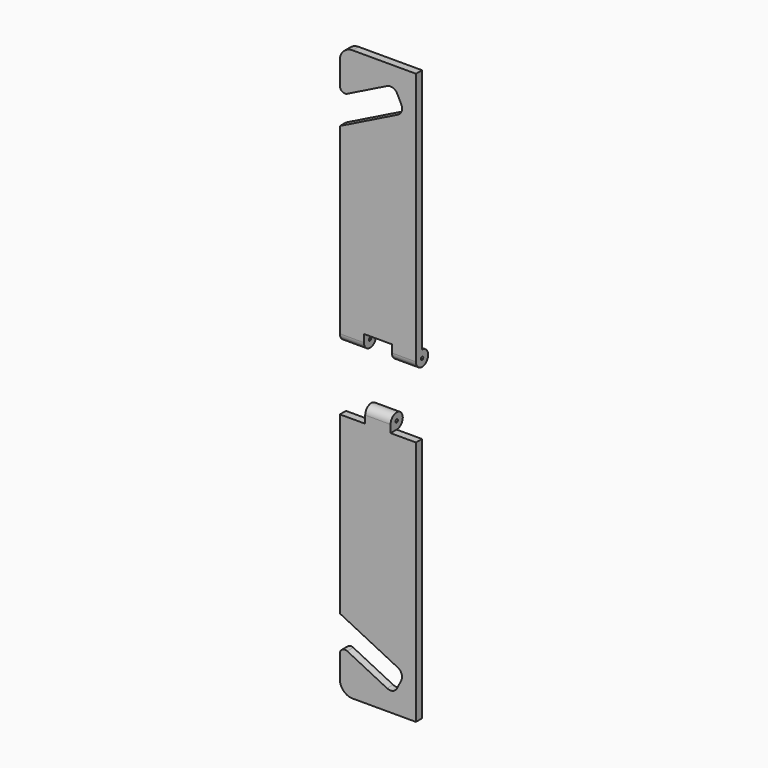
from build123d import *

# Parameters (mm, degrees)
F1_DEPTH  = 1.5
F3_DEPTH  = 30
F4_DEPTH  = 30
F7_W      = 11
F7_H      = 6
F8_DEPTH  = 7
F9_W      = 10
F9_H      = 6
F10_DEPTH = 12.5
F11_W     = 10
F11_H     = 6
F12_DEPTH = 12.5


with BuildPart() as f1:
    # F0 (on Front) → F1 (new body, symmetric)
    with BuildSketch(Plane.XZ):
        with BuildLine():
            Line((30, 52.5), (5, 52.5))
            ThreePointArc((5, 52.5), (1.4644660941, 51.0355339059), (0, 47.5))
            Line((0, 47.5), (0, 38.5159408377))
            ThreePointArc((0, 38.5159408377), (0.9462520417, 36.8160540061), (2.8896152404, 36.7246885595))
            Line((2.8896152404, 36.7246885595), (18.5942382679, 44.5243001271))
            ThreePointArc((18.5942382679, 44.5243001271), (20.8849916238, 44.6809111126), (22.6155395457, 43.1718445704))
            Line((22.6155395457, 43.1718445704), (24.2014796028, 39.9785328875))
            ThreePointArc((24.2014796028, 39.9785328875), (24.3580905882, 37.6877795315), (22.849024046, 35.9572316097))
            Line((22.849024046, 35.9572316097), (0, 24.6093939733))
            Line((0, 24.6093939733), (0, -47.5))
            Line((0, -47.5), (30, -47.5))
            Line((30, -47.5), (30, 52.5))
        make_face()
    extrude(amount=F1_DEPTH, both=True)

    # F2 (on Right) → F3 (join)
    with BuildSketch(Plane.YZ):
        with BuildLine():
            Line((0.9, -47.5), (-1.5, -47.5))
            ThreePointArc((-1.5, -47.5), (1.5, -50.5), (4.5, -47.5))
            ThreePointArc((4.5, -47.5), (3.6213203436, -45.3786796564), (1.5, -44.5))
            Line((1.5, -44.5), (1.5, -46.9))
            ThreePointArc((1.5, -46.9), (1.9242640687, -47.0757359313), (2.1, -47.5))
            ThreePointArc((2.1, -47.5), (1.5, -48.1), (0.9, -47.5))
        make_face()
        with BuildLine():
            Line((-1.5, 24.6093939733), (-1.5, -47.5))
            ThreePointArc((-1.5, -47.5), (-0.6213203436, -45.3786796564), (1.5, -44.5))
            Line((1.5, -44.5), (1.5, 24.6093939733))
            Line((1.5, 24.6093939733), (-1.5, 24.6093939733))
        make_face()
        with BuildLine():
            ThreePointArc((1.5, -44.5), (-0.6213203436, -45.3786796564), (-1.5, -47.5))
            Line((-1.5, -47.5), (0.9, -47.5))
            ThreePointArc((0.9, -47.5), (1.0757359313, -47.0757359313), (1.5, -46.9))
            Line((1.5, -46.9), (1.5, -44.5))
        make_face()
    extrude(amount=F3_DEPTH)

    # F2 (on Right) → F4 (cut)
    with BuildSketch(Plane.YZ):
        with BuildLine():
            ThreePointArc((1.5, -46.9), (1.0757359313, -47.0757359313), (0.9, -47.5))
            Line((0.9, -47.5), (1.5, -47.5))
            Line((1.5, -47.5), (1.5, -46.9))
        make_face()
    extrude(amount=F4_DEPTH, mode=Mode.SUBTRACT)


with BuildPart() as f6_1:
    # F6: instance of F1
    add(f1.part.mirror(Plane.XY.offset(-60)))

    # F9 (on Front) → F10 (cut, symmetric)
    with BuildSketch(Plane.XZ):
        with Locations((5, -72.5)):
            Rectangle(F9_W, F9_H)
    extrude(amount=F10_DEPTH, both=True, mode=Mode.SUBTRACT)

    # F11 (on Front) → F12 (cut, symmetric)
    with BuildSketch(Plane.XZ):
        with Locations((25, -72.5)):
            Rectangle(F11_W, F11_H)
    extrude(amount=F12_DEPTH, both=True, mode=Mode.SUBTRACT)


with BuildPart() as f1_1:
    add(f1.part)

    # F7 (on Front) → F8 (cut, symmetric)
    with BuildSketch(Plane.XZ):
        with Locations((15, -47.5)):
            Rectangle(F7_W, F7_H)
    extrude(amount=F8_DEPTH, both=True, mode=Mode.SUBTRACT)


solid = Compound([f6_1.part, f1_1.part])
